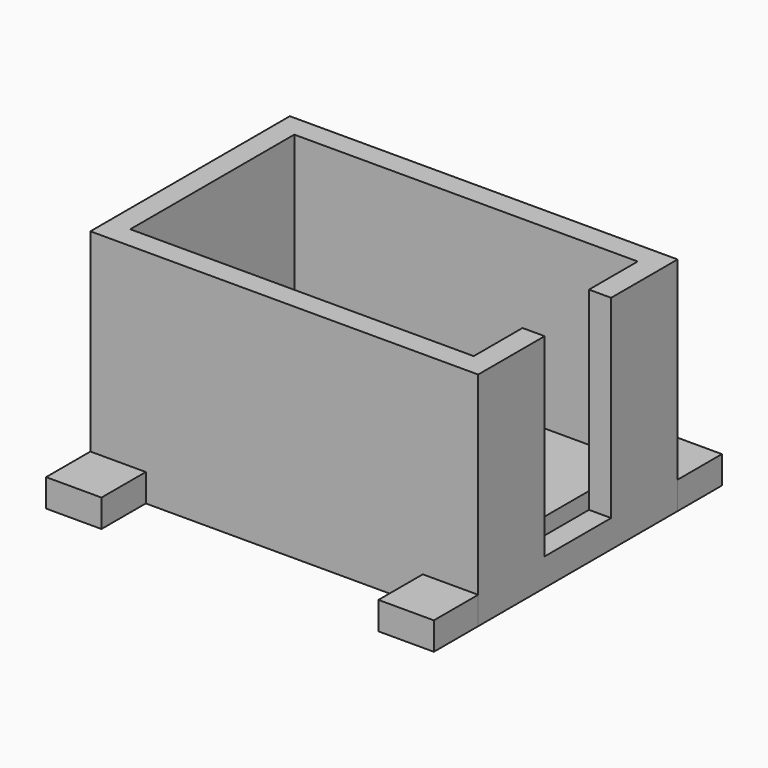
from build123d import *

# Parameters (mm, degrees)
BOX003_W     = 10
BOX003_H     = 10
BOX003_DEPTH = 5
BOX004_W     = 10
BOX004_H     = 10
BOX004_DEPTH = 5
BOX005_W     = 10
BOX005_H     = 10
BOX005_DEPTH = 5
BOX006_W     = 10
BOX006_H     = 10
BOX006_DEPTH = 5
BOX002_W     = 4
BOX002_H     = 15
BOX002_DEPTH = 35
BOX001_W     = 62
BOX001_H     = 37
BOX001_DEPTH = 32
BOX_W        = 70
BOX_H        = 45
BOX_DEPTH    = 40


with BuildPart() as cube003:
    # Box003 → Box003 (new body)
    with BuildSketch(Plane(origin=(0, -10, 0), x_dir=(1, 0, 0), z_dir=(0, 0, 1))):
        with Locations((5, 5)):
            Rectangle(BOX003_W, BOX003_H)
    extrude(amount=BOX003_DEPTH)


with BuildPart() as cube004:
    # Box004 → Box004 (new body)
    with BuildSketch(Plane(origin=(60, -10, 0), x_dir=(1, 0, 0), z_dir=(0, 0, 1))):
        with Locations((5, 5)):
            Rectangle(BOX004_W, BOX004_H)
    extrude(amount=BOX004_DEPTH)


with BuildPart() as cube005:
    # Box005 → Box005 (new body)
    with BuildSketch(Plane(origin=(0, 45, 0), x_dir=(1, 0, 0), z_dir=(0, 0, 1))):
        with Locations((5, 5)):
            Rectangle(BOX005_W, BOX005_H)
    extrude(amount=BOX005_DEPTH)


with BuildPart() as cube006:
    # Box006 → Box006 (new body)
    with BuildSketch(Plane(origin=(60, 45, 0), x_dir=(1, 0, 0), z_dir=(0, 0, 1))):
        with Locations((5, 5)):
            Rectangle(BOX006_W, BOX006_H)
    extrude(amount=BOX006_DEPTH)


with BuildPart() as cube002:
    # Box002 → Box002 (new body)
    with BuildSketch(Plane(origin=(66, 15, 5), x_dir=(1, 0, 0), z_dir=(0, 0, 1))):
        with Locations((2, 7.5)):
            Rectangle(BOX002_W, BOX002_H)
    extrude(amount=BOX002_DEPTH)


with BuildPart() as cube001:
    # Box001 → Box001 (new body)
    with BuildSketch(Plane(origin=(4, 4, 8), x_dir=(1, 0, 0), z_dir=(0, 0, 1))):
        with Locations((31, 18.5)):
            Rectangle(BOX001_W, BOX001_H)
    extrude(amount=BOX001_DEPTH)


with BuildPart() as cut001:
    # Box → Box (new body)
    with BuildSketch(Plane.XY):
        with Locations((35, 22.5)):
            Rectangle(BOX_W, BOX_H)
    extrude(amount=BOX_DEPTH)

    # Cut: cut Cube001
    add(cube001.part, mode=Mode.SUBTRACT)

    # Cut001: cut Cube002
    add(cube002.part, mode=Mode.SUBTRACT)


solid = Compound([cube003.part, cube004.part, cube005.part, cube006.part, cut001.part])
